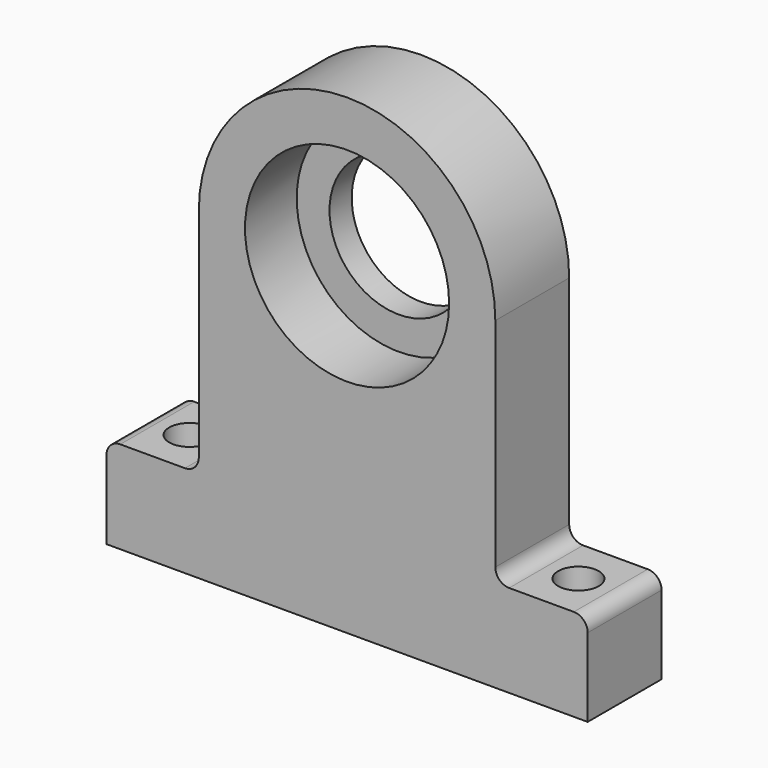
from build123d import *

# Parameters (mm, degrees)
F0_W     = 10
F0_H     = 10
F0_W_2   = 32.1
F0_R     = 11.05
F0_R_2   = 7.5
F1_DEPTH = 10
F2_R     = 11.05
F2_R_2   = 7.5
F3_DEPTH = 7
F5_D     = 4.4
F6_R     = 1.5


with BuildPart() as f1:
    # F0 (on Front) → F1 (new body)
    with BuildSketch(Plane.XZ):
        with Locations((-21.05, -22.5)):
            Rectangle(F0_W, F0_H)
        with Locations((0, -22.5)):
            Rectangle(F0_W_2, F0_H)
        with Locations((21.05, -22.5)):
            Rectangle(F0_W, F0_H)
        with BuildLine():
            Line((-16.05, 7.5), (-16.05, -17.5))
            Line((-16.05, -17.5), (16.05, -17.5))
            Line((16.05, -17.5), (16.05, 7.5))
            ThreePointArc((16.05, 7.5), (0, 23.55), (-16.05, 7.5))
        make_face()
        with Locations((0, 7.5)):
            Circle(F0_R, mode=Mode.SUBTRACT)
        with Locations((0, 7.5)):
            Circle(F0_R)
        with Locations((0, 7.5)):
            Circle(F0_R_2, mode=Mode.SUBTRACT)
    extrude(amount=F1_DEPTH)

    # F2 (on face) → F3 (cut)
    with BuildSketch(Plane.XZ.offset(10)):
        with Locations((0, 7.5)):
            Circle(F2_R)
        with Locations((0, 7.5)):
            Circle(F2_R_2, mode=Mode.SUBTRACT)
    extrude(amount=-F3_DEPTH, mode=Mode.SUBTRACT)

    # F5 (through all)
    with Locations(Plane.XY.offset(-17.5)):
        with Locations((-21.05, -5), (21.05, -5)):
            Hole(F5_D / 2)

    # F6
    f6_edges = [f1.edges().sort_by_distance(p)[0] for p in [
        (-16.05, -5, -17.5),
        (-26.05, -5, -17.5),
        (16.05, -5, -17.5),
        (26.05, -5, -17.5),
    ]]
    fillet(f6_edges, radius=F6_R)


solid = f1.part
